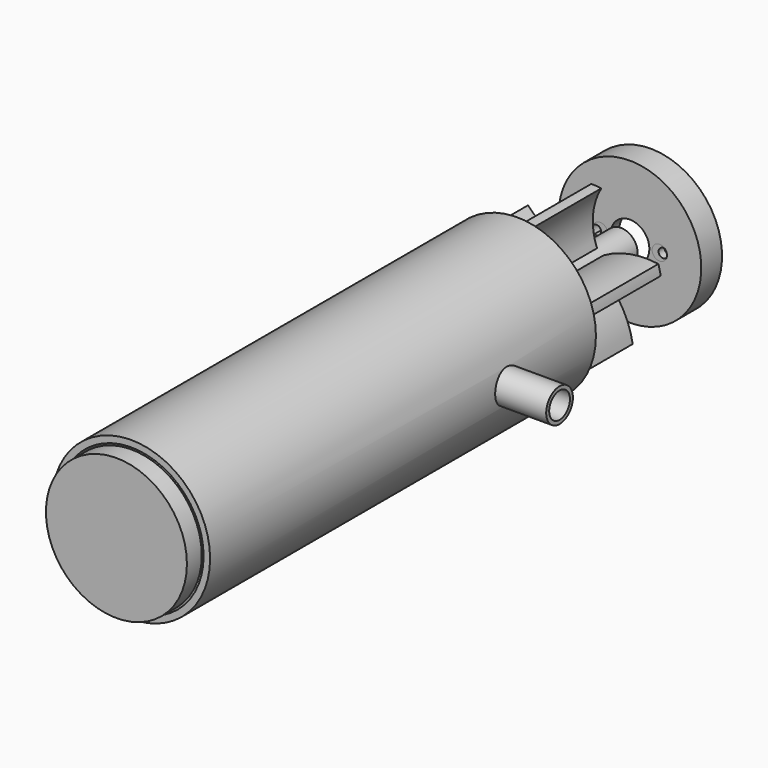
from build123d import *

# Parameters (mm, degrees)
F0_R      = 21.25
F0_R_2    = 19.5
F1_DEPTH  = 130
F2_R      = 19
F3_DEPTH  = 2
F6_DEPTH  = 25
F7_COUNT  = 5
F8_R      = 4.5
F8_R_2    = 1.7909602392
F9_DEPTH  = 35
F11_R     = 13.5
F11_R_2   = 1.25
F11_R_3   = 5.5
F12_DEPTH = 2
F13_R     = 19
F14_DEPTH = 5
F15_R     = 19.25
F15_R_2   = 2
F15_R_3   = 5.25
F17_DEPTH = 3
F16_R     = 19.25
F16_R_2   = 15.25
F18_DEPTH = 7
F19_R     = 5
F20_DEPTH = 25
F21_R     = 4.5
F21_R_2   = 3.5
F22_DEPTH = 35


with BuildPart() as f1:
    # F0 (on Front) → F1 (new body)
    with BuildSketch(Plane.XZ):
        Circle(F0_R)
        Circle(F0_R_2, mode=Mode.SUBTRACT)
    extrude(amount=F1_DEPTH)

    # F19 (on Right) → F20 (cut)
    with BuildSketch(Plane.YZ):
        with Locations((-29.4406684911, 0)):
            Circle(F19_R)
    extrude(amount=-F20_DEPTH, mode=Mode.SUBTRACT)

    # F21 (on Right) → F22 (join)
    with BuildSketch(Plane.YZ):
        with Locations((-29.4406684911, 0)):
            Circle(F21_R)
        with Locations((-29.4406684911, 0)):
            Circle(F21_R_2, mode=Mode.SUBTRACT)
    extrude(amount=F22_DEPTH)


with BuildPart() as f3:
    # F2 (on Front) → F3 (new body)
    with BuildSketch(Plane.XZ):
        Circle(F2_R)
    extrude(amount=F3_DEPTH)

    # F5 (on face) → F6 (join)
    with BuildSketch(Plane(origin=(0, 0, 0), x_dir=(-1, 0, 0), z_dir=(0, 1, 0))):
        with BuildLine():
            ThreePointArc((-1.8208355153, 3.5615387161), (0, 4), (1.8208355153, 3.5615387161))
            ThreePointArc((1.8208355153, 3.5615387161), (2.2507159796, 11.4388461611), (0, 19))
            ThreePointArc((0, 19), (-1.3487526298, 18.9520676008), (-2.690700107, 18.8085122467))
            ThreePointArc((-2.690700107, 18.8085122467), (-0.4251484769, 11.2894652862), (-1.8208355153, 3.5615387161))
        make_face()
    extrude(amount=F6_DEPTH)


with BuildPart() as f7_1:
    # F7: instance of F3
    add(f3.part.rotate(Axis((0, 13.0243711174, 0), (0, 1, 0)), 1 * 360 / F7_COUNT))


with BuildPart() as f7_2:
    # F7: instance of F3
    add(f3.part.rotate(Axis((0, 13.0243711174, 0), (0, 1, 0)), 2 * 360 / F7_COUNT))


with BuildPart() as f7_3:
    # F7: instance of F3
    add(f3.part.rotate(Axis((0, 13.0243711174, 0), (0, 1, 0)), 3 * 360 / F7_COUNT))


with BuildPart() as f7_4:
    # F7: instance of F3
    add(f3.part.rotate(Axis((0, 13.0243711174, 0), (0, 1, 0)), 4 * 360 / F7_COUNT))


with BuildPart() as f3_1:
    add(f3.part)

    add(f7_1.part)  # F9 merges F7_1

    add(f7_2.part)  # F9 merges F7_2

    add(f7_3.part)  # F9 merges F7_3

    add(f7_4.part)  # F9 merges F7_4
    # F8 (on Front) → F9 (join)
    with BuildSketch(Plane.XZ):
        Circle(F8_R)
        Circle(F8_R_2, mode=Mode.SUBTRACT)
    extrude(amount=-F9_DEPTH)


with BuildPart() as f12:
    # F11 (on offset) → F12 (new body)
    with BuildSketch(Plane(origin=(0, 38, 0), x_dir=(-1, 0, 0), z_dir=(0, 1, 0))):
        Circle(F11_R)
        with Locations((8.9987234333, -0.1515802457)):
            Circle(F11_R_2, mode=Mode.SUBTRACT)
        with Locations((-8.9977424343, 0.2015715413)):
            Circle(F11_R_2, mode=Mode.SUBTRACT)
        Circle(F11_R_3, mode=Mode.SUBTRACT)
    extrude(amount=F12_DEPTH)


with BuildPart() as f14:
    # F13 (on face) → F14 (new body)
    with BuildSketch(Plane.XZ.offset(130)):
        Circle(F13_R)
    extrude(amount=F14_DEPTH)


with BuildPart() as f17:
    # F15 (on offset) → F17 (new body)
    with BuildSketch(Plane(origin=(0, 38, 0), x_dir=(-1, 0, 0), z_dir=(0, 1, 0))):
        Circle(F15_R)
        with Locations((-8, 0)):
            Circle(F15_R_2, mode=Mode.SUBTRACT)
        Circle(F15_R_3, mode=Mode.SUBTRACT)
        with Locations((8, 0)):
            Circle(F15_R_2, mode=Mode.SUBTRACT)
    extrude(amount=F17_DEPTH)

    # F16 (on face) → F18 (join)
    with BuildSketch(Plane(origin=(0, 38, 0), x_dir=(-1, 0, 0), z_dir=(0, 1, 0))):
        Circle(F16_R)
        Circle(F16_R_2, mode=Mode.SUBTRACT)
    extrude(amount=F18_DEPTH)


solid = Compound([f1.part, f3_1.part, f12.part, f14.part, f17.part])
